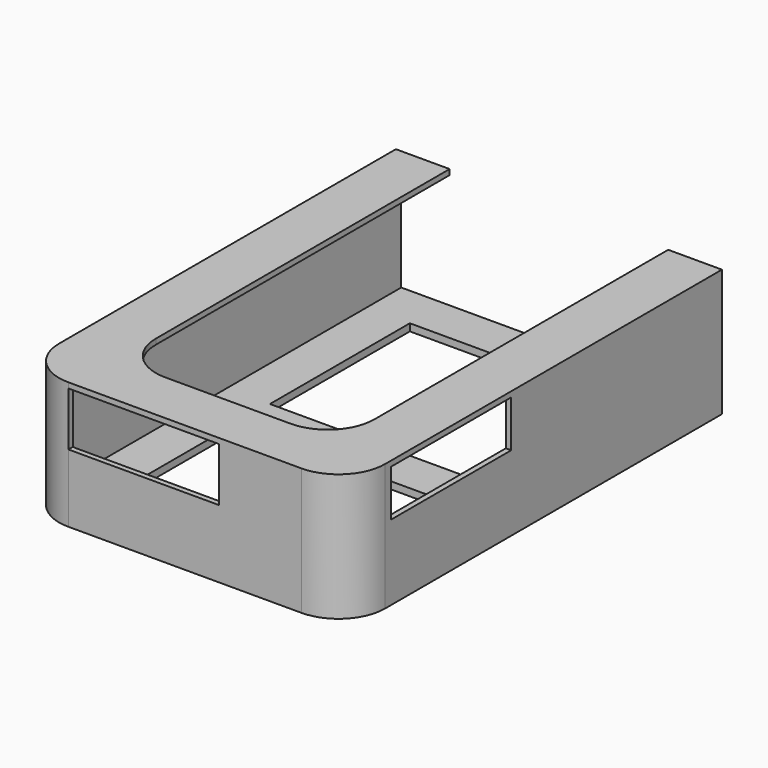
from build123d import *

# Parameters (mm, degrees)
F0_W     = 64
F0_H     = 44.1964381933
F0_H_2   = 48.8035618067
F1_DEPTH = 2
F2_DEPTH = 34
F3_W     = 42
F3_H     = 13
F4_DEPTH = 5
F5_W     = 42
F5_H     = 15
F6_DEPTH = 5
F7_W     = 1.5
F7_H     = 73.5
F8_DEPTH = 1.5


with BuildPart() as f1:
    # F0 (on Top) → F1 (new body)
    with BuildSketch(Plane.XY):
        with BuildLine():
            Line((-31, -64.5), (31, -64.5))
            ThreePointArc((31, -64.5), (40.1923881554, -60.6923881554), (44, -51.5))
            Line((44, -51.5), (44, 64.5))
            Line((44, 64.5), (-44, 64.5))
            Line((-44, 64.5), (-44, -51.5))
            ThreePointArc((-44, -51.5), (-40.1923881554, -60.6923881554), (-31, -64.5))
        make_face()
        with Locations((0, -30.4017809033)):
            Rectangle(F0_W, F0_H, mode=Mode.SUBTRACT)
        with Locations((0, 28.0982190967)):
            Rectangle(F0_W, F0_H_2, mode=Mode.SUBTRACT)
    extrude(amount=F1_DEPTH)

    # F0 (on Top) → F2 (join)
    with BuildSketch(Plane.XY):
        with BuildLine():
            ThreePointArc((44, -51.5), (40.1923881554, -60.6923881554), (31, -64.5))
            Line((31, -64.5), (-31, -64.5))
            ThreePointArc((-31, -64.5), (-40.1923881554, -60.6923881554), (-44, -51.5))
            Line((-44, -51.5), (-44, 64.5))
            Line((-44, 64.5), (-45.5, 64.5))
            Line((-45.5, 64.5), (-45.5, -53))
            ThreePointArc((-45.5, -53), (-41.6923881554, -62.1923881554), (-32.5, -66))
            Line((-32.5, -66), (32.5, -66))
            ThreePointArc((32.5, -66), (41.6923881554, -62.1923881554), (45.5, -53))
            Line((45.5, -53), (45.5, 64.5))
            Line((45.5, 64.5), (44, 64.5))
            Line((44, 64.5), (44, -51.5))
        make_face()
    extrude(amount=F2_DEPTH)

    # F3 (on face) → F4 (cut)
    with BuildSketch(Plane.YZ.offset(45.5)):
        with Locations((-30, 27.5)):
            Rectangle(F3_W, F3_H)
    extrude(amount=-F4_DEPTH, mode=Mode.SUBTRACT)

    # F5 (on face) → F6 (cut)
    with BuildSketch(Plane.XZ.offset(66)):
        with Locations((-11.5, 26.5)):
            Rectangle(F5_W, F5_H)
    extrude(amount=-F6_DEPTH, mode=Mode.SUBTRACT)

    # F7 (on face) → F8 (join)
    with BuildSketch(Plane.XY.offset(34)):
        with BuildLine():
            Line((44, -9), (44, 64.5))
            Line((44, 64.5), (30.5, 64.5))
            Line((30.5, 64.5), (30.5, 51))
            Line((30.5, 51), (30.5, -38))
            ThreePointArc((30.5, -38), (26.6923881554, -47.1923881554), (17.5, -51))
            Line((17.5, -51), (-17.5, -51))
            ThreePointArc((-17.5, -51), (-26.6923881554, -47.1923881554), (-30.5, -38))
            Line((-30.5, -38), (-30.5, 51))
            Line((-30.5, 51), (-30.5, 64.5))
            Line((-30.5, 64.5), (-45.5, 64.5))
            Line((-45.5, 64.5), (-45.5, -53))
            ThreePointArc((-45.5, -53), (-41.6923881554, -62.1923881554), (-32.5, -66))
            Line((-32.5, -66), (32.5, -66))
            ThreePointArc((32.5, -66), (41.6923881554, -62.1923881554), (45.5, -53))
            Line((45.5, -53), (45.5, -9))
            Line((45.5, -9), (44, -9))
        make_face()
        with Locations((44.75, 27.75)):
            Rectangle(F7_W, F7_H)
    extrude(amount=F8_DEPTH)


solid = f1.part
